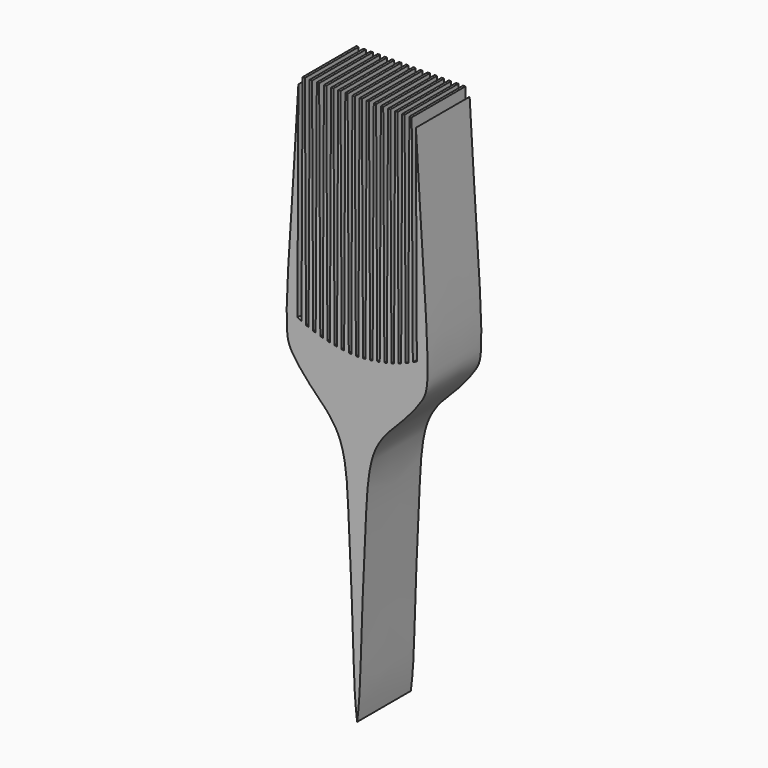
from build123d import *

# Parameters (mm, degrees)
F2_DEPTH = 25
F3_DEPTH = 25


with BuildPart() as f2:
    # F0 (on Front) → F2 (new body)
    with BuildSketch(Plane.XZ):
        with BuildLine():
            Line((-22.2209449857, 17.7476592362), (-21.8743043952, 94.2416265607))
            add(Edge.make_bspline(
                [(-21.8743043952, 94.2416265607), (-22.8988784072, 74.6316019931), (-25.6545503488, 37.5651671373), (-26.6849941365, 11.1492550863), (-24.4837383509, 5.5172249928), (-17.2096985685, -3.8264135224), (-4.3441389043, -14.7912238616), (-3.2197684522, -41.6210216982), (-1.3415933361, -79.6843798665), (-1.1324912032, -98.8666928387), (0, -107.5883227808)],
                knots=[0, 0, 0, 0, 0.1985095083, 0.3251020439, 0.3843444203, 0.4701704217, 0.5728638316, 0.7034328182, 0.8641783758, 1, 1, 1, 1], degree=3))
            add(Edge.make_bspline(
                [(21.8743043952, 94.2416265607), (22.8988784072, 74.6316019931), (25.6545503488, 37.5651671373), (26.6849941365, 11.1492550863), (24.4837383509, 5.5172249928), (17.2096985685, -3.8264135224), (4.3441389043, -14.7912238616), (3.2197684522, -41.6210216982), (1.3415933361, -79.6843798665), (1.1324912032, -98.8666928387), (0, -107.5883227808)],
                knots=[0, 0, 0, 0, 0.1985095083, 0.3251020439, 0.3843444203, 0.4701704217, 0.5728638316, 0.7034328182, 0.8641783758, 1, 1, 1, 1], degree=3))
            Line((21.8743043952, 94.2416265607), (22.2209449857, 17.7476592362))
            add(Edge.make_bspline(
                [(22.2209449857, 17.7476592362), (11.8845314719, 12.2526693158), (0.1368414014, 12.1382363141), (0, 12.1396542527)],
                knots=[0, 0, 0, 0, 22.9176812953, 22.9176812953, 22.9176812953, 22.9176812953], degree=3))
            add(Edge.make_bspline(
                [(-22.2209449857, 17.7476592362), (-11.8845314719, 12.2526693158), (-0.1368414014, 12.1382363141), (0, 12.1396542527)],
                knots=[0, 0, 0, 0, 22.9176812953, 22.9176812953, 22.9176812953, 22.9176812953], degree=3))
        make_face()
    extrude(amount=F2_DEPTH)

    # F1 (on Front) → F3 (join)
    with BuildSketch(Plane.XZ):
        Polygon((-20.7601606414, 8.5798595101), (-18.9898393586, 8.5798595101), (-19.438565827, 97.1196144819), (-20.311434173, 97.1196144819), align=None)
        Polygon((-18.1101606414, 8.5798595101), (-16.3398393586, 8.5798595101), (-16.788565827, 97.1196144819), (-17.661434173, 97.1196144819), align=None)
        Polygon((-15.4601606414, 8.5798595101), (-13.6898393586, 8.5798595101), (-14.138565827, 97.1196144819), (-15.011434173, 97.1196144819), align=None)
        Polygon((-12.8101606414, 8.5798595101), (-11.0398393586, 8.5798595101), (-11.488565827, 97.1196144819), (-12.361434173, 97.1196144819), align=None)
        Polygon((-10.1601606414, 8.5798595101), (-8.3898393586, 8.5798595101), (-8.838565827, 97.1196144819), (-9.711434173, 97.1196144819), align=None)
        Polygon((-7.5101606414, 8.5798595101), (-5.7398393586, 8.5798595101), (-6.188565827, 97.1196144819), (-7.061434173, 97.1196144819), align=None)
        Polygon((-4.8601606414, 8.5798595101), (-3.0898393586, 8.5798595101), (-3.538565827, 97.1196144819), (-4.411434173, 97.1196144819), align=None)
        Polygon((-2.2101606414, 8.5798595101), (-0.4398393586, 8.5798595101), (-0.888565827, 97.1196144819), (-1.761434173, 97.1196144819), align=None)
        Polygon((0.4398393586, 8.5798595101), (2.2101606414, 8.5798595101), (1.761434173, 97.1196144819), (0.888565827, 97.1196144819), align=None)
        Polygon((3.0898393586, 8.5798595101), (4.8601606414, 8.5798595101), (4.411434173, 97.1196144819), (3.538565827, 97.1196144819), align=None)
        Polygon((5.7398393586, 8.5798595101), (7.5101606414, 8.5798595101), (7.061434173, 97.1196144819), (6.188565827, 97.1196144819), align=None)
        Polygon((8.3898393586, 8.5798595101), (10.1601606414, 8.5798595101), (9.711434173, 97.1196144819), (8.838565827, 97.1196144819), align=None)
        Polygon((11.0398393586, 8.5798595101), (12.8101606414, 8.5798595101), (12.361434173, 97.1196144819), (11.488565827, 97.1196144819), align=None)
        Polygon((13.6898393586, 8.5798595101), (15.4601606414, 8.5798595101), (15.011434173, 97.1196144819), (14.138565827, 97.1196144819), align=None)
        Polygon((16.3398393586, 8.5798595101), (18.1101606414, 8.5798595101), (17.661434173, 97.1196144819), (16.788565827, 97.1196144819), align=None)
        Polygon((18.9898393586, 8.5798595101), (20.7601606414, 8.5798595101), (20.311434173, 97.1196144819), (19.438565827, 97.1196144819), align=None)
    extrude(amount=F3_DEPTH)


solid = f2.part
